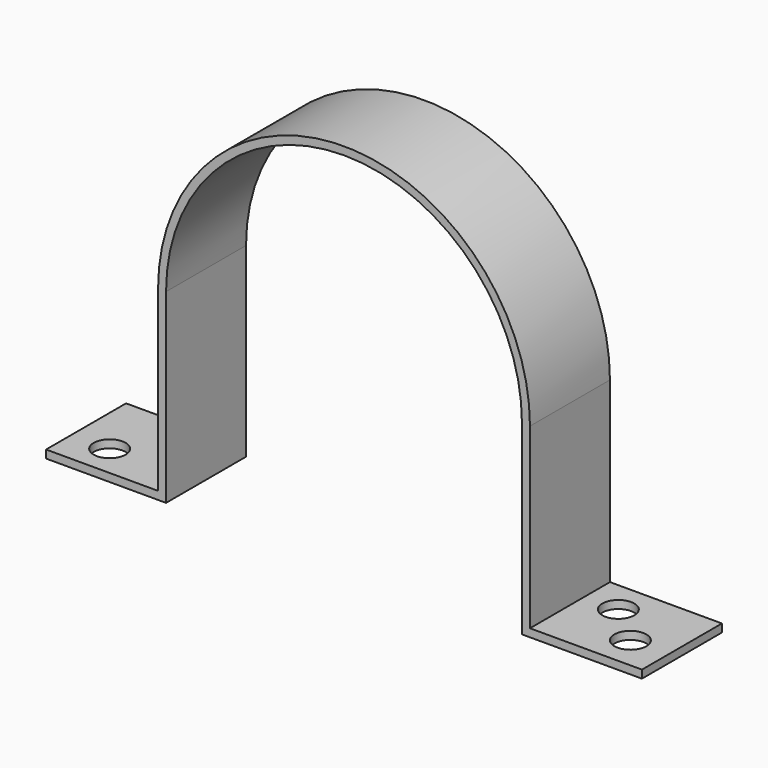
from build123d import *

# Parameters (mm, degrees)
F1_DEPTH = 25
F2_R     = 4
F3_DEPTH = 2.001


with BuildPart() as f1:
    # F0 (on Front) → F1 (new body)
    with BuildSketch(Plane.XZ):
        with BuildLine():
            ThreePointArc((-44.5, 0), (0, 44.5), (44.5, 0))
            Line((44.5, 0), (44.5, -46.5))
            Line((44.5, -46.5), (74.5, -46.5))
            Line((74.5, -46.5), (74.5, -44.5))
            Line((74.5, -44.5), (46.5, -44.5))
            Line((46.5, -44.5), (46.5, 0))
            ThreePointArc((46.5, 0), (0, 46.5), (-46.5, 0))
            Line((-46.5, 0), (-46.5, -44.5))
            Line((-46.5, -44.5), (-74.5, -44.5))
            Line((-74.5, -44.5), (-74.5, -46.5))
            Line((-74.5, -46.5), (-44.5, -46.5))
            Line((-44.5, -46.5), (-44.5, 0))
        make_face()
    extrude(amount=F1_DEPTH)

    # F2 (on face) → F3 (cut, through all)
    with BuildSketch(Plane.XY.offset(-44.5)):
        with Locations((-65, -17)):
            Circle(F2_R)
        with Locations((-55, -7)):
            Circle(F2_R)
        with Locations((55, -7.999404)):
            Circle(F2_R)
        with Locations((65, -16.7284)):
            Circle(F2_R)
    extrude(amount=-F3_DEPTH, mode=Mode.SUBTRACT)


solid = f1.part
